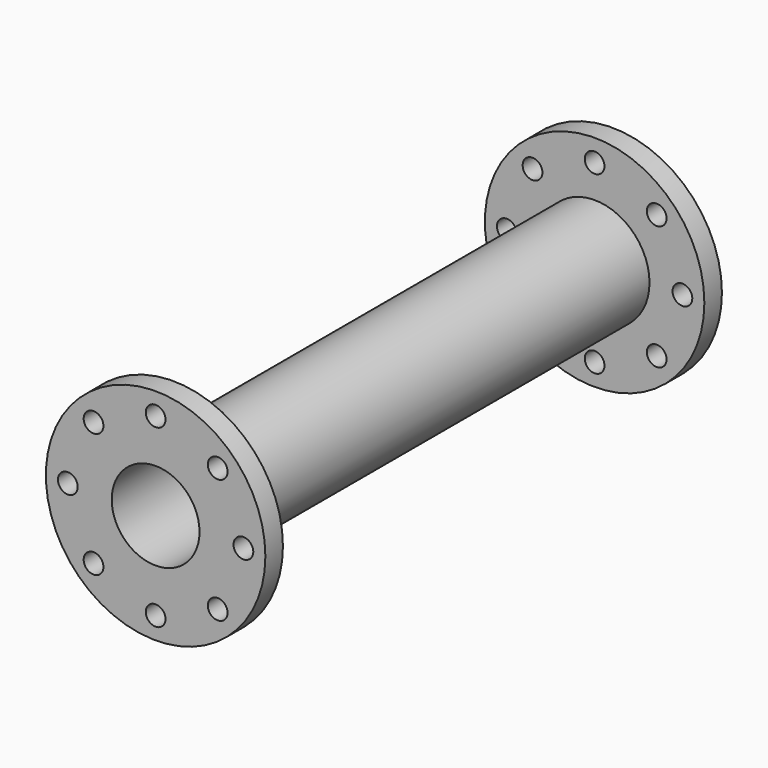
from build123d import *

# Parameters (mm, degrees)
F0_R     = 100
F0_R_2   = 9
F0_R_3   = 50
F0_R_4   = 40
F1_DEPTH = 20
F2_DEPTH = 500
F3_R     = 100
F3_R_2   = 9
F3_R_3   = 50
F3_R_4   = 40
F4_DEPTH = 20


with BuildPart() as f1:
    # F0 (on Front) → F1 (new body)
    with BuildSketch(Plane.XZ):
        Circle(F0_R)
        with Locations((-56.5685424949, -56.5685424949)):
            Circle(F0_R_2, mode=Mode.SUBTRACT)
        with Locations((0, -80)):
            Circle(F0_R_2, mode=Mode.SUBTRACT)
        with Locations((56.5685424949, -56.5685424949)):
            Circle(F0_R_2, mode=Mode.SUBTRACT)
        with Locations((-80, 0)):
            Circle(F0_R_2, mode=Mode.SUBTRACT)
        with Locations((-56.5685424949, 56.5685424949)):
            Circle(F0_R_2, mode=Mode.SUBTRACT)
        Circle(F0_R_3, mode=Mode.SUBTRACT)
        with Locations((80, 0)):
            Circle(F0_R_2, mode=Mode.SUBTRACT)
        with Locations((0, 80)):
            Circle(F0_R_2, mode=Mode.SUBTRACT)
        with Locations((56.5685424949, 56.5685424949)):
            Circle(F0_R_2, mode=Mode.SUBTRACT)
        Circle(F0_R_3)
        Circle(F0_R_4, mode=Mode.SUBTRACT)
    extrude(amount=F1_DEPTH)

    # F0 (on Front) → F2 (join)
    with BuildSketch(Plane.XZ):
        Circle(F0_R_3)
        Circle(F0_R_4, mode=Mode.SUBTRACT)
    extrude(amount=F2_DEPTH)

    # F3 (on face) → F4 (join)
    with BuildSketch(Plane.XZ.offset(500)):
        Circle(F3_R)
        with Locations((-56.5685424949, -56.5685424949)):
            Circle(F3_R_2, mode=Mode.SUBTRACT)
        with Locations((0, -80)):
            Circle(F3_R_2, mode=Mode.SUBTRACT)
        with Locations((56.5685424949, -56.5685424949)):
            Circle(F3_R_2, mode=Mode.SUBTRACT)
        with Locations((-80, 0)):
            Circle(F3_R_2, mode=Mode.SUBTRACT)
        with Locations((-56.5685424949, 56.5685424949)):
            Circle(F3_R_2, mode=Mode.SUBTRACT)
        Circle(F3_R_3, mode=Mode.SUBTRACT)
        with Locations((80, 0)):
            Circle(F3_R_2, mode=Mode.SUBTRACT)
        with Locations((0, 80)):
            Circle(F3_R_2, mode=Mode.SUBTRACT)
        with Locations((56.5685424949, 56.5685424949)):
            Circle(F3_R_2, mode=Mode.SUBTRACT)
        Circle(F3_R_3)
        Circle(F3_R_4, mode=Mode.SUBTRACT)
    extrude(amount=F4_DEPTH)


solid = f1.part
